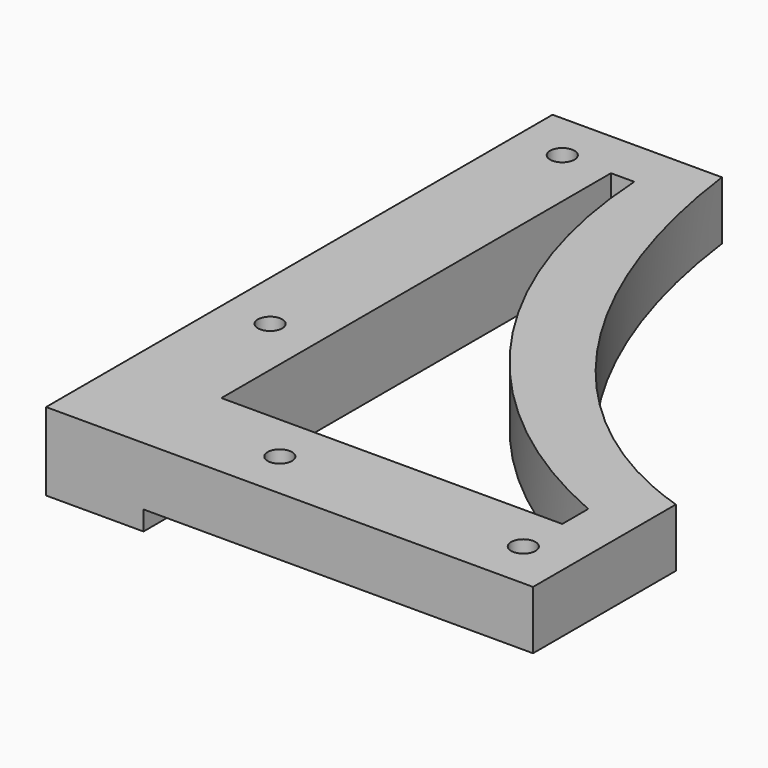
from build123d import *

# Parameters (mm, degrees)
F1_DEPTH  = 12
F2_W      = 100
F2_H      = 20
F3_DEPTH  = 5
F4_W      = 135
F4_H      = 20
F5_DEPTH  = 5
F7_R      = 2.5
F8_DEPTH  = 25
F9_DEPTH  = 5
F10_W     = 20
F10_H     = 20
F10_W_2   = 100
F10_H_2   = 130
F11_DEPTH = 25
F12_W     = 130
F12_H     = 9
F13_DEPTH = 100.0010001
F15_DEPTH = 12.0010001
F16_W     = 80
F16_H     = 4
F17_DEPTH = 20


with BuildPart() as f1:
    # F0 (on Top) → F1 (new body)
    with BuildSketch(Plane.XY):
        with BuildLine():
            add(Edge.make_bspline(
                [(-86.5, 0), (-86.5, -116.5), (0, -116.5)],
                knots=[1.5707963268, 1.5707963268, 1.5707963268, 3.1415926536, 3.1415926536, 3.1415926536], degree=2, weights=[1, 0.7071067812, 1]))
            Line((-86.5, 0), (-86.5, -116.5))
            Line((-86.5, -116.5), (0, -116.5))
        make_face()
        Polygon((-86.5, -116.5), (-86.5, 0), (-100, 0), (-100, -130), (0, -130), (0, -116.5), align=None)
    extrude(amount=F1_DEPTH)

    # F2 (on face) → F3 (join)
    with BuildSketch(Plane.XZ.offset(130)):
        with Locations((-50, 6)):
            Rectangle(F2_W, F2_H)
    extrude(amount=F3_DEPTH)

    # F4 (on face) → F5 (join)
    with BuildSketch(Plane(origin=(-100, 0, 0), x_dir=(0, -1, 0), z_dir=(-1, 0, 0))):
        with Locations((67.5, 6)):
            Rectangle(F4_W, F4_H)
    extrude(amount=F5_DEPTH)

    # F7 (on face) → F8 (join)
    with BuildSketch(Plane(origin=(0, 0, -4), x_dir=(1, 0, 0), z_dir=(0, 0, -1))):
        Polygon((0, 135), (0, 150), (-120, 150), (-120, 0), (-105, 0), (-105, 135), align=None)
        with Locations((-110, 30)):
            Circle(F7_R, mode=Mode.SUBTRACT)
        with Locations((-110, 105)):
            Circle(F7_R, mode=Mode.SUBTRACT)
        with Locations((-80, 140)):
            Circle(F7_R, mode=Mode.SUBTRACT)
        with Locations((-30, 140)):
            Circle(F7_R, mode=Mode.SUBTRACT)
    extrude(amount=-F8_DEPTH)

    # F6 (on face) → F9 (join)
    with BuildSketch(Plane.XY.offset(16)):
        Polygon((-90, 0), (-105, 0), (-105, -135), (0, -135), (0, -120), (-90, -120), align=None)
    extrude(amount=F9_DEPTH)

    # F10 (on Top) → F11 (cut, symmetric)
    with BuildSketch(Plane.XY):
        with Locations((-10, -10)):
            Rectangle(F10_W, F10_H)
        with Locations((-70, -10)):
            Rectangle(F10_W_2, F10_H)
        with Locations((-10, -85)):
            Rectangle(F10_W, F10_H_2)
    extrude(amount=F11_DEPTH, both=True, mode=Mode.SUBTRACT)

    # F12 (on face) → F13 (cut, through all)
    with BuildSketch(Plane.YZ.offset(-20)):
        with Locations((-85, 16.5)):
            Rectangle(F12_W, F12_H)
    extrude(amount=-F13_DEPTH, mode=Mode.SUBTRACT)

    # F14 (on face) → F15 (cut, through all)
    with BuildSketch(Plane(origin=(0, 0, 0), x_dir=(1, 0, 0), z_dir=(0, 0, -1))):
        with BuildLine():
            Line((-30, 130), (-100, 130))
            Line((-100, 130), (-100, 30))
            Line((-100, 30), (-95.2158076494, 30))
            ThreePointArc((-95.2158076494, 30), (-75.8232238431, 85.9047045014), (-30, 123.3431933691))
            Line((-30, 123.3431933691), (-30, 130))
        make_face()
    extrude(amount=-F15_DEPTH, mode=Mode.SUBTRACT)

    # F16 (on face) → F17 (cut, through all)
    with BuildSketch(Plane(origin=(0, -130, 0), x_dir=(-1, 0, 0), z_dir=(0, 1, 0))):
        with Locations((60, -2)):
            Rectangle(F16_W, F16_H)
    extrude(amount=-F17_DEPTH, mode=Mode.SUBTRACT)


solid = f1.part
